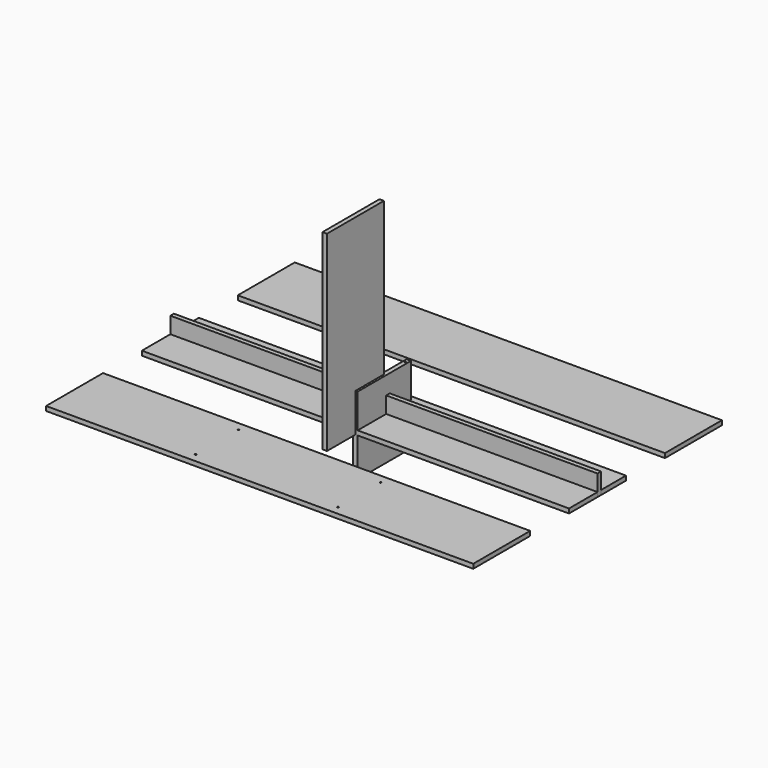
from build123d import *

# Parameters (mm, degrees)
F0_W          = 1828.8
F0_H          = 304.8
F1_DEPTH      = 19.05
F2_R          = 3.175
F3_DEPTH      = 12.7
F4_W          = 19.05
F4_H          = 819.15
F5_DEPTH      = 304.8
F6_W          = 19.05
F6_H          = 330.2
F7_DEPTH      = 152.4
F7_DEPTH_BACK = 133.35
F8_R          = 3.175
F9_DEPTH      = 330.201
F10_R         = 3.175
F11_DEPTH     = 12.7
F12_W         = 19.05
F12_H         = 88.9
F13_DEPTH     = 914.4


with BuildPart() as f1:
    # F0 (on Top) → F1 (new body)
    with BuildSketch(Plane.XY):
        with Locations((0, -512.5841030306)):
            Rectangle(F0_W, F0_H)
    extrude(amount=F1_DEPTH)


with BuildPart() as f1b:
    # F0 (on Top) → F1, piece 2 (new body)
    with BuildSketch(Plane.XY):
        Rectangle(F0_W, F0_H)
    extrude(amount=F1_DEPTH)


with BuildPart() as f1c:
    # F0 (on Top) → F1, piece 3 (new body)
    with BuildSketch(Plane.XY):
        with Locations((0, 513.3622078247)):
            Rectangle(F0_W, F0_H)
    extrude(amount=F1_DEPTH)


with BuildPart() as f3_tool:
    # F2 (on face) → F3 (new body)
    with BuildSketch(Plane.XY.offset(19.05)):
        with Locations((0, 114.3)):
            Circle(F2_R)
        with Locations((0, -114.3)):
            Circle(F2_R)
        with Locations((-304.8, -398.2841030306)):
            Circle(F2_R)
        with Locations((-304.8, -626.8841030306)):
            Circle(F2_R)
        with Locations((304.8, -626.8841030306)):
            Circle(F2_R)
        with Locations((304.8, -398.2841030306)):
            Circle(F2_R)
    extrude(amount=-F3_DEPTH)


with BuildPart() as f1_1:
    add(f1.part)

    # F3: cut by f3_tool
    add(f3_tool.part, mode=Mode.SUBTRACT)


with BuildPart() as f1b_1:
    add(f1b.part)

    # F3: cut by f3_tool
    add(f3_tool.part, mode=Mode.SUBTRACT)


with BuildPart() as f5:
    # F4 (on Front) → F5 (new body)
    with BuildSketch(Plane.XZ):
        with Locations((-9.525, 409.575)):
            Rectangle(F4_W, F4_H)
    extrude(amount=F5_DEPTH)


with BuildPart() as f7:
    # F6 (on Front) → F7 (new body, two sides)
    with BuildSketch(Plane.XZ) as f7_sk:
        Rectangle(F6_W, F6_H)
    extrude(amount=F7_DEPTH)
    extrude(f7_sk.sketch, amount=-F7_DEPTH_BACK)

    # F8 (on face) → F9 (cut, through all)
    with BuildSketch(Plane.XY.offset(165.1)):
        with Locations((0, 114.3)):
            Circle(F8_R)
        with Locations((0, -114.3)):
            Circle(F8_R)
    extrude(amount=-F9_DEPTH, mode=Mode.SUBTRACT)


with BuildPart() as f11_tool:
    # F10 (on face) → F11 (new body)
    with BuildSketch(Plane(origin=(0, 0, 0), x_dir=(1, 0, 0), z_dir=(0, 0, -1))):
        with Locations((-304.8, 114.3)):
            Circle(F10_R)
        with Locations((-304.8, -114.3)):
            Circle(F10_R)
        with Locations((304.8, -114.3)):
            Circle(F10_R)
        with Locations((304.8, 114.3)):
            Circle(F10_R)
        with Locations((0, -399.0622078247)):
            Circle(F10_R)
        with Locations((0, -627.6622078247)):
            Circle(F10_R)
    extrude(amount=-F11_DEPTH)


with BuildPart() as f1b_2:
    add(f1b_1.part)

    # F11: cut by f11_tool
    add(f11_tool.part, mode=Mode.SUBTRACT)


with BuildPart() as f1c_1:
    add(f1c.part)

    # F11: cut by f11_tool
    add(f11_tool.part, mode=Mode.SUBTRACT)


with BuildPart() as f13:
    # F12 (on Right) → F13 (new body, symmetric)
    with BuildSketch(Plane.YZ):
        with Locations((9.525, 44.45)):
            Rectangle(F12_W, F12_H)
    extrude(amount=F13_DEPTH, both=True)


solid = Compound([f1_1.part, f5.part, f7.part, f1b_2.part, f1c_1.part, f13.part])
